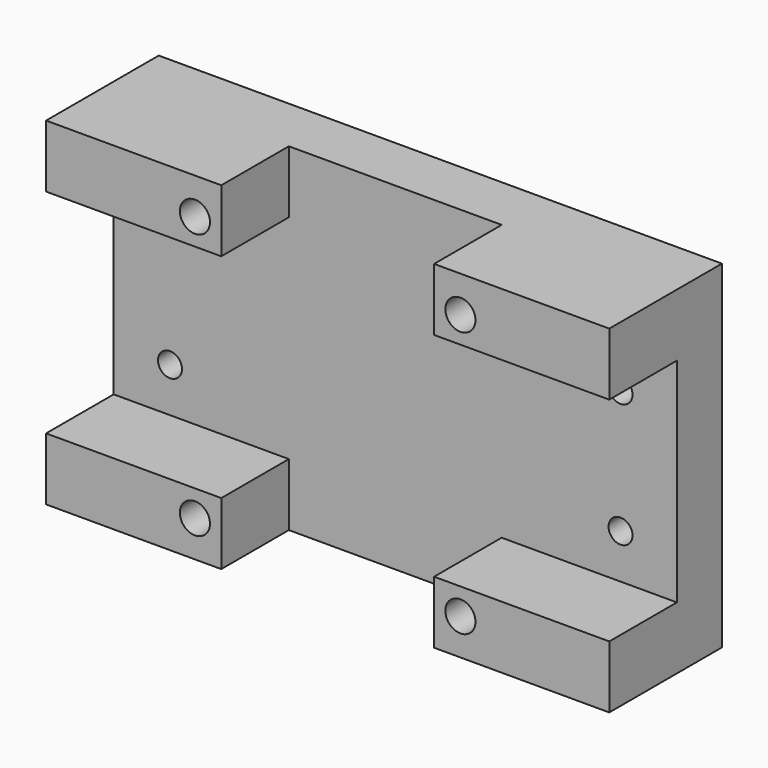
from build123d import *

# Parameters (mm, degrees)
F0_W     = 100
F0_H     = 60
F1_DEPTH = 25
F3_W     = 100
F3_H     = 37.79
F4_DEPTH = 15
F2_R     = 2.675
F5_DEPTH = 25.001
F6_R     = 2.125
F7_DEPTH = 10.001
F8_W     = 37.79
F8_H     = 60
F9_DEPTH = 15


with BuildPart() as f1:
    # F0 (on Front) → F1 (new body)
    with BuildSketch(Plane.XZ):
        Rectangle(F0_W, F0_H)
    extrude(amount=F1_DEPTH)

    # F3 (on face) → F4 (cut)
    with BuildSketch(Plane.XZ.offset(25)):
        Rectangle(F3_W, F3_H)
    extrude(amount=-F4_DEPTH, mode=Mode.SUBTRACT)

    # F2 (on face) → F5 (cut, through all)
    with BuildSketch(Plane.XZ.offset(25)):
        with Locations((-23.57, 23.57)):
            Circle(F2_R)
        with Locations((23.57, 23.57)):
            Circle(F2_R)
        with Locations((-23.57, -23.57)):
            Circle(F2_R)
        with Locations((23.57, -23.57)):
            Circle(F2_R)
    extrude(amount=-F5_DEPTH, mode=Mode.SUBTRACT)

    # F6 (on face) → F7 (cut, through all)
    with BuildSketch(Plane.XZ.offset(10)):
        with Locations((-40, 11)):
            Circle(F6_R)
        with Locations((-40, -11)):
            Circle(F6_R)
        with Locations((40, 11)):
            Circle(F6_R)
        with Locations((40, -11)):
            Circle(F6_R)
    extrude(amount=-F7_DEPTH, mode=Mode.SUBTRACT)

    # F8 (on face) → F9 (cut)
    with BuildSketch(Plane.XZ.offset(25)):
        Rectangle(F8_W, F8_H)
    extrude(amount=-F9_DEPTH, mode=Mode.SUBTRACT)


solid = f1.part
